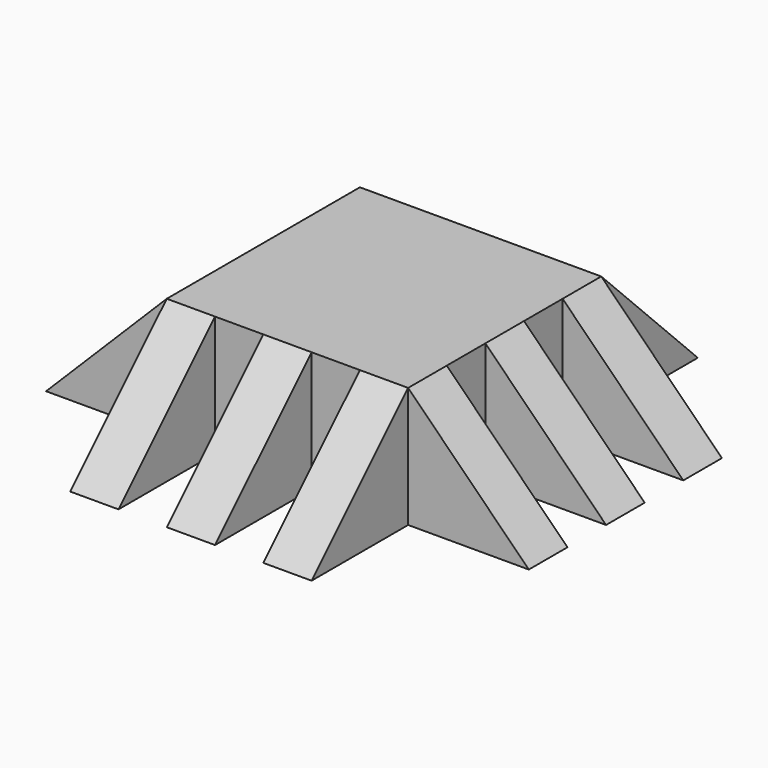
from build123d import *

# Parameters (mm, degrees)
F0_W      = 50
F0_H      = 50
F1_DEPTH  = 25
F2_T      = -3
F3_W      = 10
F3_H      = 25
F4_DEPTH  = 25
F6_DEPTH  = 50
F7_W      = 10
F7_H      = 25
F8_DEPTH  = 25
F10_DEPTH = 50
F11_W     = 10
F11_H     = 25
F12_DEPTH = 25
F14_DEPTH = 50
F15_W     = 10
F15_H     = 25
F16_DEPTH = 25
F18_DEPTH = 50


with BuildPart() as f1:
    # F0 (on Top) → F1 (new body)
    with BuildSketch(Plane.XY):
        Rectangle(F0_W, F0_H)
    extrude(amount=F1_DEPTH)

    # F2 (hollow: no face is removed)
    offset(amount=F2_T, mode=Mode.SUBTRACT)

    # F3 (on face) → F4 (join)
    with BuildSketch(Plane.YZ.offset(25)):
        with Locations((-20, 12.5)):
            Rectangle(F3_W, F3_H)
        with Locations((0, 12.5)):
            Rectangle(F3_W, F3_H)
        with Locations((20, 12.5)):
            Rectangle(F3_W, F3_H)
    extrude(amount=F4_DEPTH)

    # F5 (on face) → F6 (cut)
    with BuildSketch(Plane.XZ.offset(25)):
        Polygon((50, 0), (50, 25), (25, 25), align=None)
    extrude(amount=-F6_DEPTH, mode=Mode.SUBTRACT)

    # F7 (on face) → F8 (join)
    with BuildSketch(Plane(origin=(0, 25, 0), x_dir=(-1, 0, 0), z_dir=(0, 1, 0))):
        with Locations((-20, 12.5)):
            Rectangle(F7_W, F7_H)
        with Locations((0, 12.5)):
            Rectangle(F7_W, F7_H)
        with Locations((20, 12.5)):
            Rectangle(F7_W, F7_H)
    extrude(amount=F8_DEPTH)

    # F9 (on face) → F10 (cut)
    with BuildSketch(Plane(origin=(-25, 0, 0), x_dir=(0, -1, 0), z_dir=(-1, 0, 0))):
        Polygon((-25, 25), (-50, 25), (-50, 0), align=None)
    extrude(amount=-F10_DEPTH, mode=Mode.SUBTRACT)

    # F11 (on face) → F12 (join)
    with BuildSketch(Plane.XZ.offset(25)):
        with Locations((-20, 12.5)):
            Rectangle(F11_W, F11_H)
        with Locations((0, 12.5)):
            Rectangle(F11_W, F11_H)
        with Locations((20, 12.5)):
            Rectangle(F11_W, F11_H)
    extrude(amount=F12_DEPTH)

    # F13 (on face) → F14 (cut)
    with BuildSketch(Plane(origin=(-25, 0, 0), x_dir=(0, -1, 0), z_dir=(-1, 0, 0))):
        Polygon((50, 0), (50, 25), (25, 25), align=None)
    extrude(amount=-F14_DEPTH, mode=Mode.SUBTRACT)

    # F15 (on face) → F16 (join)
    with BuildSketch(Plane(origin=(-25, 0, 0), x_dir=(0, -1, 0), z_dir=(-1, 0, 0))):
        with Locations((-20, 12.5)):
            Rectangle(F15_W, F15_H)
        with Locations((0, 12.5)):
            Rectangle(F15_W, F15_H)
        with Locations((20, 12.5)):
            Rectangle(F15_W, F15_H)
    extrude(amount=F16_DEPTH)

    # F17 (on face) → F18 (cut)
    with BuildSketch(Plane(origin=(0, 25, 0), x_dir=(-1, 0, 0), z_dir=(0, 1, 0))):
        Polygon((50, 25), (25, 25), (50, 0), align=None)
    extrude(amount=-F18_DEPTH, mode=Mode.SUBTRACT)


solid = f1.part
